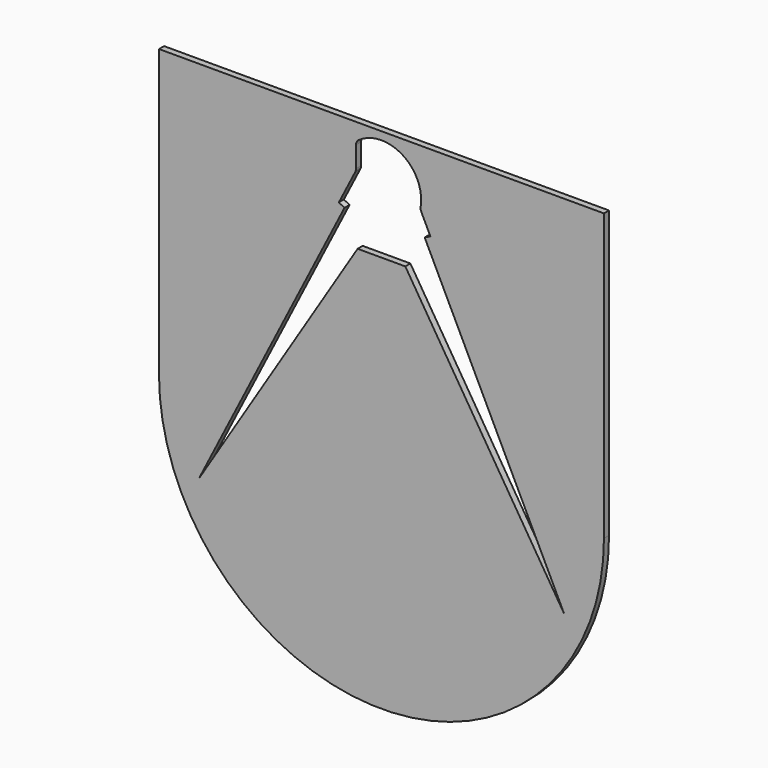
from build123d import *

# Parameters (mm, degrees)
F1_DEPTH = 2
F3_DEPTH = 2


with BuildPart() as f1:
    # F0 (on Front) → F1 (new body)
    with BuildSketch(Plane.XZ):
        with BuildLine():
            Line((70, 90), (-70, 90))
            Line((-70, 90), (-70, 0))
            ThreePointArc((-70, 0), (0, -70), (70, 0))
            Line((70, 0), (70, 90))
        make_face()
    extrude(amount=F1_DEPTH)

    # F2 (on Front) → F3 (cut, through all)
    with BuildSketch(Plane.XZ):
        with BuildLine():
            Line((-13.413986, 65.908148), (-11.632058, 65))
            Line((-11.632058, 65), (-57.5, -25))
            Line((-57.5, -25), (-7.5, 55))
            Line((-7.5, 55), (7.5, 55))
            Line((7.5, 55), (57.5, -25))
            Line((57.5, -25), (13.593599, 65))
            Line((13.593599, 65), (15.391105, 65.876911))
            Line((15.391105, 65.876911), (12.511769, 71.779018))
            ThreePointArc((12.511769, 71.779018), (12.330481, 72.365453), (12.335581, 72.979249))
            ThreePointArc((12.335581, 72.979249), (6.665878, 85.574312), (-7.142857, 85.258148))
            ThreePointArc((-7.142857, 85.258148), (-7.772811, 84.542664), (-8, 83.616844))
            Line((-8, 83.616844), (-8, 77.011483))
            ThreePointArc((-8, 77.011483), (-8.055282, 76.544501), (-8.218072, 76.103334))
            Line((-8.218072, 76.103334), (-13.413986, 65.908148))
        make_face()
    extrude(amount=F3_DEPTH, mode=Mode.SUBTRACT)


solid = f1.part
